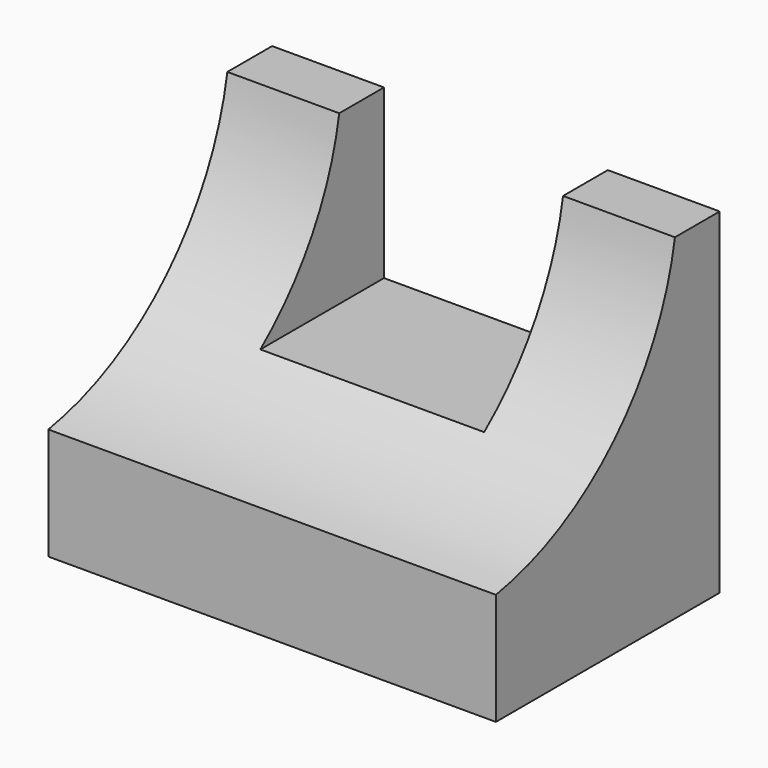
from build123d import *

# Parameters (mm, degrees)
F0_W     = 50.8
F0_H     = 38.1
F1_DEPTH = 31.75
F2_W     = 25.4
F2_H     = 19.05
F3_DEPTH = 19.05
F5_DEPTH = 50.8


with BuildPart() as f1:
    # F0 (on Front) → F1 (new body)
    with BuildSketch(Plane.XZ):
        with Locations((25.4, 19.05)):
            Rectangle(F0_W, F0_H)
    extrude(amount=-F1_DEPTH)

    # F2 (on face) → F3 (cut)
    with BuildSketch(Plane.XY.offset(38.1)):
        with Locations((25.4, 22.225)):
            Rectangle(F2_W, F2_H)
    extrude(amount=-F3_DEPTH, mode=Mode.SUBTRACT)

    # F4 (on face) → F5 (cut)
    with BuildSketch(Plane.YZ.offset(50.8)):
        with BuildLine():
            Line((0, 38.1), (0, 12.7))
            ThreePointArc((0, 12.7), (16.764354, 21.335646), (25.4, 38.1))
            Line((25.4, 38.1), (0, 38.1))
        make_face()
    extrude(amount=-F5_DEPTH, mode=Mode.SUBTRACT)


solid = f1.part
